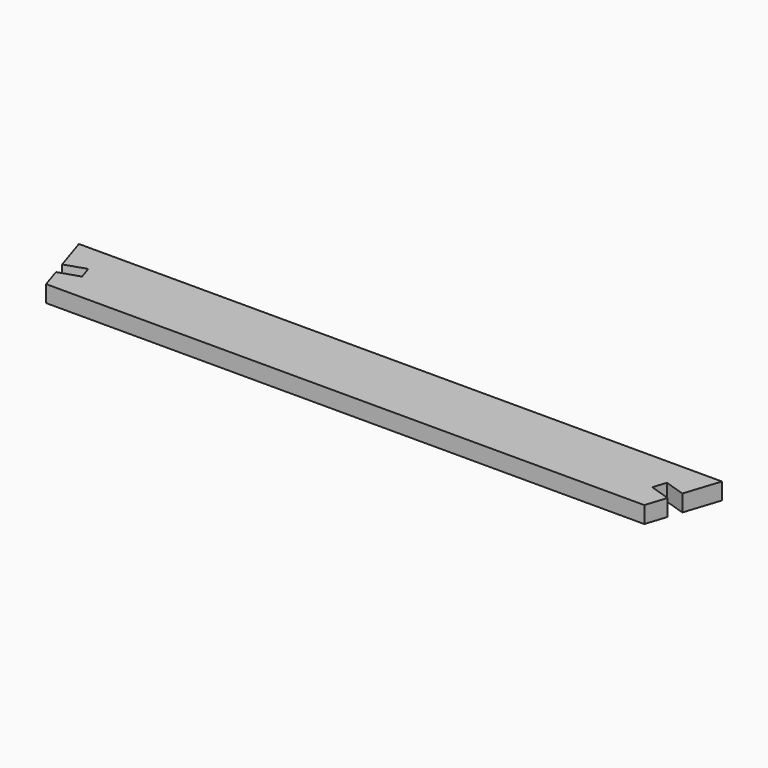
from build123d import *

# Parameters (mm, degrees)
F1_DEPTH = 11.5


with BuildPart() as f1:
    # F0 (on Top) → F1 (new body, symmetric)
    with BuildSketch(Plane.XY):
        Polygon((442.5, 95), (-442.5, 95), (-426.774462, 46.601769), (-398.242766, 55.872279), (-392.371443, 37.802205), (-420.903139, 28.531695), (-411.632629, 0), (411.632629, 0), (420.903139, 28.531695), (392.371443, 37.802205), (398.242766, 55.872279), (426.774462, 46.601769), align=None)
    extrude(amount=F1_DEPTH, both=True)


solid = f1.part
